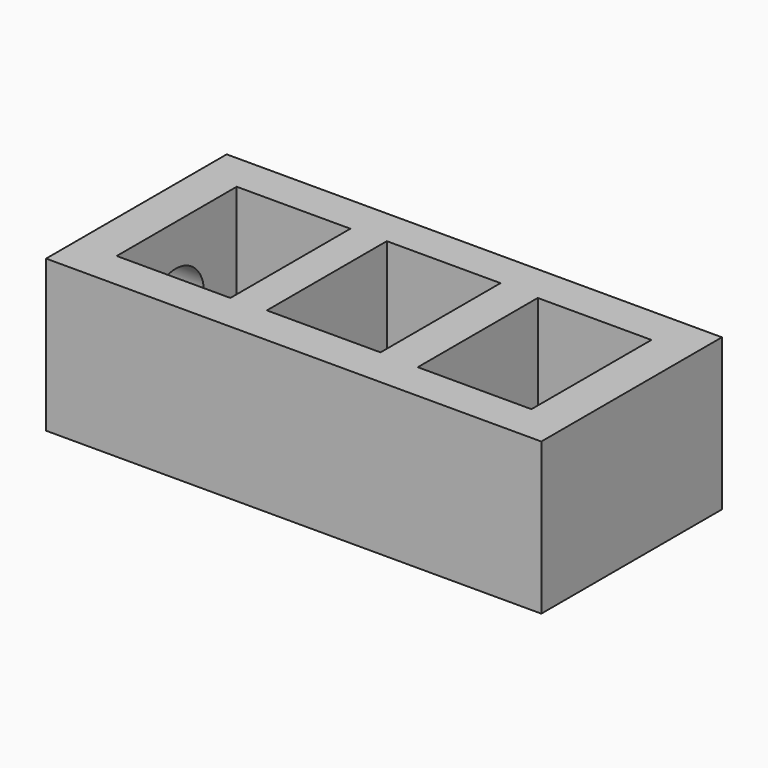
from build123d import *

# Parameters (mm, degrees)
SKETCH_W     = 130.707065
SKETCH_H     = 59.583364
SKETCH_W_2   = 30
SKETCH_H_2   = 39.583364
PAD_DEPTH    = 40
SKETCH001_R  = 9.347601
POCKET_DEPTH = 32


with BuildPart() as part:
    # Sketch → Pad (new body)
    with BuildSketch(Plane.XY):
        with Locations((-4.646459, 9.990193)):
            Rectangle(SKETCH_W, SKETCH_H)
        with Locations((-44.357391, 9.990193)):
            Rectangle(SKETCH_W_2, SKETCH_H_2, mode=Mode.SUBTRACT)
        with Locations((-5.023146, 10.351241)):
            Rectangle(SKETCH_W_2, SKETCH_H_2, mode=Mode.SUBTRACT)
        with Locations((35.101015, 9.990193)):
            Rectangle(SKETCH_W_2, SKETCH_H_2, mode=Mode.SUBTRACT)
    extrude(amount=PAD_DEPTH)

    # Sketch001 (on Face4 of Pad) → Pocket (cut)
    with BuildSketch(Plane(origin=(-69.999992, 0, 0), x_dir=(0, -1, 0), z_dir=(-1, 0, 0))):
        with Locations((-9.665334, 19.795595)):
            Circle(SKETCH001_R)
    extrude(amount=-POCKET_DEPTH, mode=Mode.SUBTRACT)


solid = part.part
